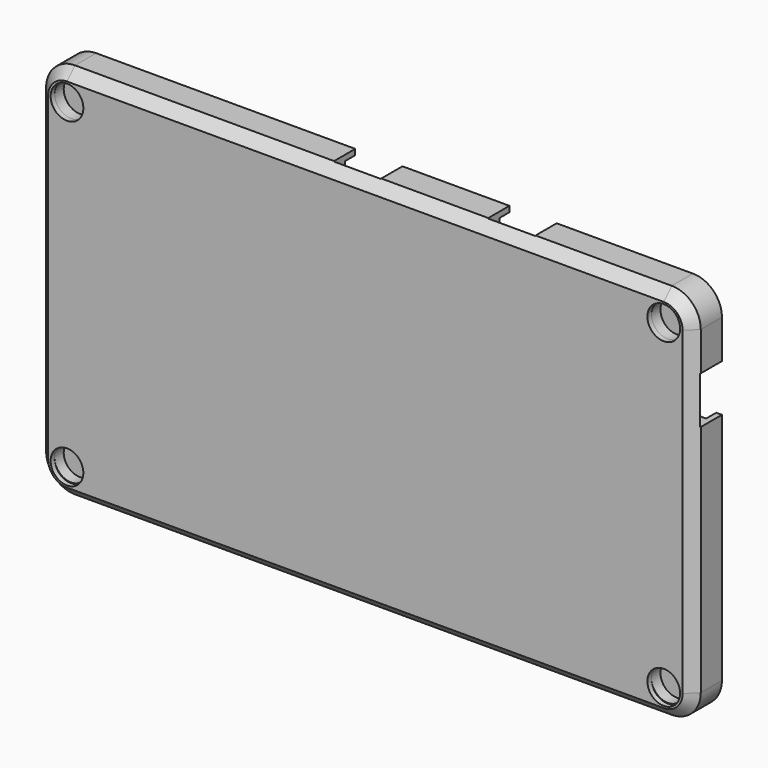
from build123d import *

# Parameters (mm, degrees)
CYLINDER001_R           = 2
CYLINDER001_DEPTH       = 10
SKETCH037_W             = 7.5
SKETCH037_H             = 7.5
EXTRUDE045_DEPTH        = 10
BOX089_W                = 11
BOX089_H                = 10
BOX089_DEPTH            = 35
BODY005_PLACEMENT_ANGLE = 90
BODY006_PLACEMENT_ANGLE = 90
CYLINDER003_R           = 2
CYLINDER003_DEPTH       = 10
CYLINDER002_R           = 1.7
CYLINDER002_DEPTH       = 10
SKETCH032_R             = 2.6
EXTRUDE043_DEPTH        = 0.8
EXTRUDE040_DEPTH        = 3
EXTRUDE038_DEPTH        = 2
EXTRUDE041_DEPTH        = 0.8


with BuildPart() as battery_cable:
    # Cylinder001 → Cylinder001 (new body)
    with BuildSketch(Plane(origin=(-66.5, 0, 35), x_dir=(0, 0, 1), z_dir=(-1, 0, 0))):
        Circle(CYLINDER001_R)
    extrude(amount=CYLINDER001_DEPTH)


with BuildPart() as switch_hole002:
    # Sketch037 → Extrude045 (new body)
    with BuildSketch(Plane.YZ.offset(35)):
        with Locations((0, 38.5)):
            Rectangle(SKETCH037_W, SKETCH037_H)
    extrude(amount=EXTRUDE045_DEPTH)


with BuildPart() as switch_hole002_1:
    # Extrude045 placement: moved
    add(switch_hole002.part.moved(Location((-9.5, 0, 0))))


with BuildPart() as dips001:
    # Box089 → Box089 (new body)
    with BuildSketch(Plane(origin=(-15, 0.5, 13.5), x_dir=(0, 0, -1), z_dir=(1, 0, 0))):
        with Locations((5.5, 5)):
            Rectangle(BOX089_W, BOX089_H)
    extrude(amount=BOX089_DEPTH)


with BuildPart() as switch_hole001:
    # Body005 base: copy of switch hole002
    add(switch_hole002_1.part)


with BuildPart() as switch_hole001_1:
    # Body005 placement: moved
    add(switch_hole001.part.moved(Location((40.5, 0, 22))).rotate(Axis((40.5, 0, 22), (0, -1, 0)), BODY005_PLACEMENT_ANGLE))


with BuildPart() as switch_hole:
    # Body006 base: copy of switch hole002
    add(switch_hole002_1.part)


with BuildPart() as switch_hole_1:
    # Body006 placement: moved
    add(switch_hole.part.moved(Location((16, 0, 22))).rotate(Axis((16, 0, 22), (0, -1, 0)), BODY006_PLACEMENT_ANGLE))


with BuildPart() as cable:
    # Cylinder003 → Cylinder003 (new body)
    with BuildSketch(Plane(origin=(-65.5, 0, 12), x_dir=(0, -1, 0), z_dir=(-1, 0, 0))):
        Circle(CYLINDER003_R)
    extrude(amount=CYLINDER003_DEPTH)


with BuildPart() as common_sub:
    # Cylinder002 → Cylinder002 (new body)
    with BuildSketch(Plane(origin=(25, -1.5, 28), x_dir=(1, 0, 0), z_dir=(0, 1, 0))):
        Circle(CYLINDER002_R)
    extrude(amount=CYLINDER002_DEPTH)

    # Fusion033: union battery cable, switch hole002, dips001, switch hole001, switch hole, cable
    add(battery_cable.part)
    add(switch_hole002_1.part)
    add(dips001.part)
    add(switch_hole001_1.part)
    add(switch_hole_1.part)
    add(cable.part)


with BuildPart() as sweep_body:
    # Sweep: sweep along a path in Sketch034
    with BuildLine(Plane.XZ.offset(10)) as sweep_path:
        Line((32, 12), (32, 48.4))
        ThreePointArc((32, 48.4), (30.652691, 51.652691), (27.4, 53))
        Line((27.4, 53), (-20, 53))
    # Sketch033 → Sweep (sweep)
    with BuildSketch(Plane.YZ):
        Polygon((-5.3, 51.4), (-3.7, 53), (-3.7, 54), (-6, 54), (-6, 51.4), align=None)
    sweep(path=sweep_path.line)


with BuildPart() as fusion:
    # Sketch032 → Extrude043 (new body)
    with BuildSketch(Plane.XZ.offset(10)):
        with Locations((27.4, 48.5)):
            Circle(SKETCH032_R)
    extrude(amount=EXTRUDE043_DEPTH)


with BuildPart() as fusion_1:
    # Extrude043 placement: moved
    add(fusion.part.moved(Location((0, 5.5, 0))))

    # Fusion: union Sweep body
    add(sweep_body.part)


with BuildPart() as bottom003:
    # Sketch028 → Extrude040 (new body)
    with BuildSketch(Plane.XZ.offset(10)):
        with BuildLine():
            ThreePointArc((32, 48.4), (30.652691, 51.652691), (27.4, 53))
            Line((27.4, 53), (-20, 53))
            Line((-20, 53), (-20, 51))
            Line((-20, 51), (27.4, 51))
            ThreePointArc((30, 48.4), (29.238478, 50.238478), (27.4, 51))
            Line((30, 23), (30, 48.4))
            Line((32, 23), (30, 23))
            Line((32, 48.4), (32, 23))
        make_face()
    extrude(amount=EXTRUDE040_DEPTH)


with BuildPart() as bottom003_1:
    # Extrude040 placement: moved
    add(bottom003.part.moved(Location((0, 8.5, 0))))


with BuildPart() as bottom004:
    # Sketch030 → Extrude038 (new body)
    with BuildSketch(Plane.XZ.offset(10)):
        with BuildLine():
            ThreePointArc((32, 48.4), (30.652691, 51.652691), (27.4, 53))
            Line((27.4, 53), (-20, 53))
            Line((-20, 53), (-20, 52.1))
            Line((-20, 52.1), (27.4, 52.1))
            ThreePointArc((31.1, 48.4), (30.016295, 51.016295), (27.4, 52.1))
            Line((31.1, 23), (31.1, 48.4))
            Line((32, 23), (31.1, 23))
            Line((32, 48.4), (32, 23))
        make_face()
    extrude(amount=EXTRUDE038_DEPTH)


with BuildPart() as bottom004_1:
    # Extrude038 placement: moved
    add(bottom004.part.moved(Location((0, 10.5, 0))))


with BuildPart() as screw_hole_bottom002:
    # Sketch003 → Revolve (revolve)
    with BuildSketch(Plane.XY):
        Polygon((1.6, 3), (1.6, 2), (0, 2), (0, 1.8), (2.6, 1.8), (2.6, 0), (4.6, 0), (4.6, 3), align=None)
    revolve(axis=Axis((0, 0, 0), (0, 1, 0)))


with BuildPart() as screw_hole_bottom002_1:
    # Body003 placement: moved
    add(screw_hole_bottom002.part.moved(Location((27.4, -4.5, 48.4))))


with BuildPart() as bottom:
    # Sketch031 → Extrude041 (new body)
    with BuildSketch(Plane.XZ.offset(10)):
        with BuildLine():
            ThreePointArc((32, 48.4), (30.652691, 51.652691), (27.4, 53))
            Line((27.4, 53), (-20, 53))
            Line((-20, 53), (-20, 23))
            Line((-20, 23), (32, 23))
            Line((32, 48.4), (32, 23))
        make_face()
    extrude(amount=EXTRUDE041_DEPTH)


with BuildPart() as bottom_1:
    # Extrude041 placement: moved
    add(bottom.part.moved(Location((0, 5.5, 0))))

    # Fusion029: union bottom003, bottom004, screw hole bottom002
    add(bottom003_1.part)
    add(bottom004_1.part)
    add(screw_hole_bottom002_1.part)

    # Cut: cut Fusion
    add(fusion_1.part, mode=Mode.SUBTRACT)


with BuildPart() as part_mirroring005:
    # Part__Mirroring005: instance of bottom
    add(bottom_1.part.mirror(Plane(origin=(-20, 0, 0), x_dir=(0, -1, 0), z_dir=(1, 0, 0))))


with BuildPart() as part_mirroring006:
    # Part__Mirroring006: instance of Part__Mirroring005
    add(part_mirroring005.part.mirror(Plane(origin=(0, 0, 23), x_dir=(0, 1, 0), z_dir=(0, 0, 1))))


with BuildPart() as bottom007:
    # Part__Mirroring004: instance of bottom
    add(bottom_1.part.mirror(Plane(origin=(0, 0, 23), x_dir=(0, 1, 0), z_dir=(0, 0, 1))))

    # Fusion031: union bottom, Part__Mirroring006, Part__Mirroring005
    add(bottom_1.part)
    add(part_mirroring006.part)
    add(part_mirroring005.part)

    # Cut026: cut common sub
    add(common_sub.part, mode=Mode.SUBTRACT)


solid = bottom007.part
